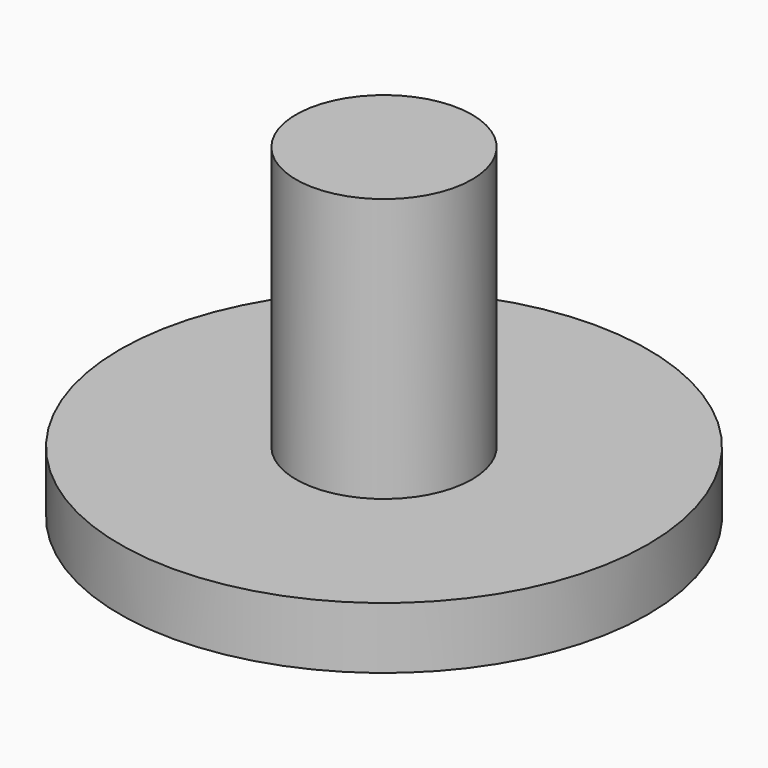
from build123d import *

# Parameters (mm, degrees)
F0_R     = 3.81
F1_DEPTH = 0.889
F2_R     = 1.27
F3_DEPTH = 3.81
F5_DEPTH = 0.8636


with BuildPart() as f1:
    # F0 (on Top) → F1 (new body)
    with BuildSketch(Plane.XY):
        Circle(F0_R)
    extrude(amount=F1_DEPTH)

    # F2 (on face) → F3 (join)
    with BuildSketch(Plane.XY.offset(0.889)):
        Circle(F2_R)
    extrude(amount=F3_DEPTH)

    # F4 (on face) → F5 (cut)
    with BuildSketch(Plane(origin=(0, 0, 0), x_dir=(1, 0, 0), z_dir=(0, 0, -1))):
        Polygon((2.963077, 0.36432), (1.166028, 2.74826), (-1.797049, 2.38394), (-2.963077, -0.36432), (-1.166028, -2.74826), (1.797049, -2.38394), align=None)
    extrude(amount=-F5_DEPTH, mode=Mode.SUBTRACT)


solid = f1.part
